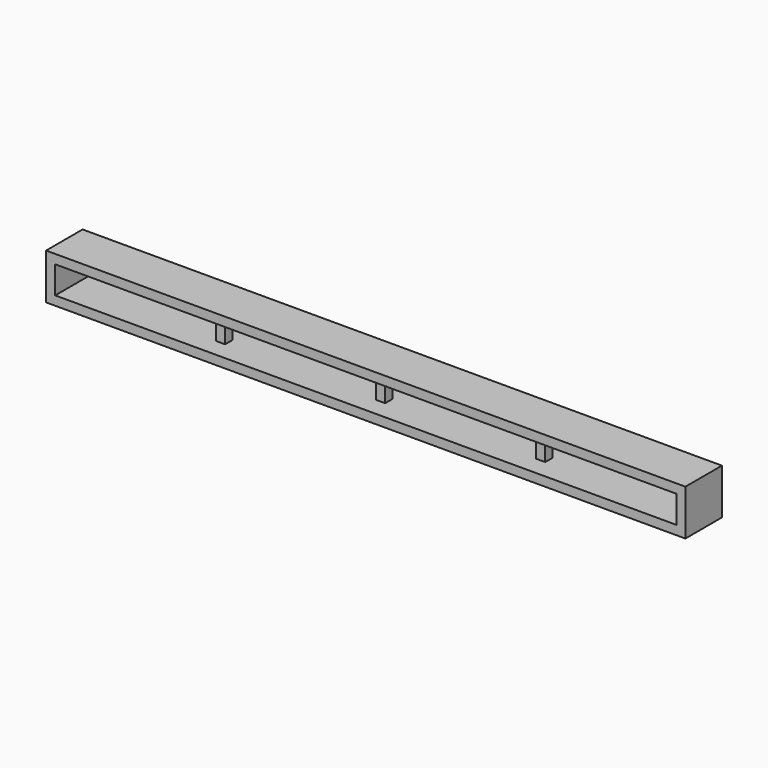
from build123d import *

# Parameters (mm, degrees)
F0_W     = 12.7
F0_H     = 2.54
F3_W     = 2.54
F3_H     = 2.54
F4_DEPTH = 12.7


with BuildPart() as f2:
    # F2: sweep along a path in F1
    with BuildLine(Plane.XZ) as f2_path:
        Line((0, 0), (177.8, 0))
        Line((177.8, 0), (177.8, -12.7))
        Line((177.8, -12.7), (0, -12.7))
        Line((0, -12.7), (0, 0))
    # F0 (on Right) → F2 (sweep)
    with BuildSketch(Plane.YZ):
        with Locations((6.35, -1.27)):
            Rectangle(F0_W, F0_H)
    sweep(path=f2_path.line, transition=Transition.RIGHT)

    # F3 (on Top) → F4 (join)
    with BuildSketch(Plane.XY):
        with Locations((44.45, 6.35)):
            Rectangle(F3_W, F3_H)
        with Locations((88.8999118072, 6.4385456411)):
            Rectangle(F3_W, F3_H)
        with Locations((133.3498236144, 6.5270912821)):
            Rectangle(F3_W, F3_H)
    extrude(amount=-F4_DEPTH)


solid = f2.part
